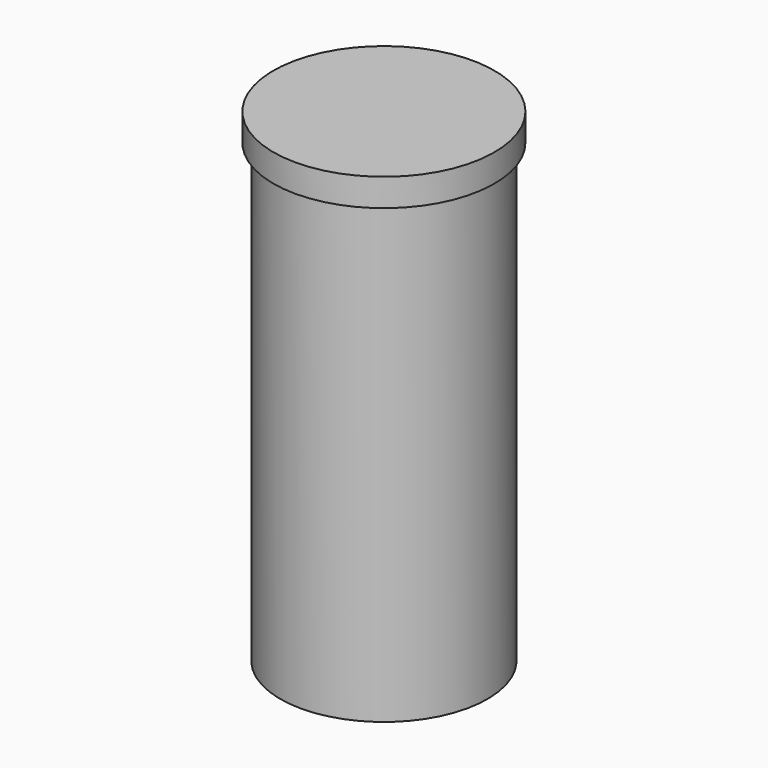
from build123d import *


with BuildPart() as part:
    # Sketch → Revolution (revolve)
    with BuildSketch(Plane.YZ):
        Polygon((0, 0), (-1.6, 0), (-1.6, -0.4), (-1.5, -0.4), (-1.5, -7), (0, -7), align=None)
    revolve(axis=Axis((0, 0, 0), (0, 0, 1)))


solid = part.part
